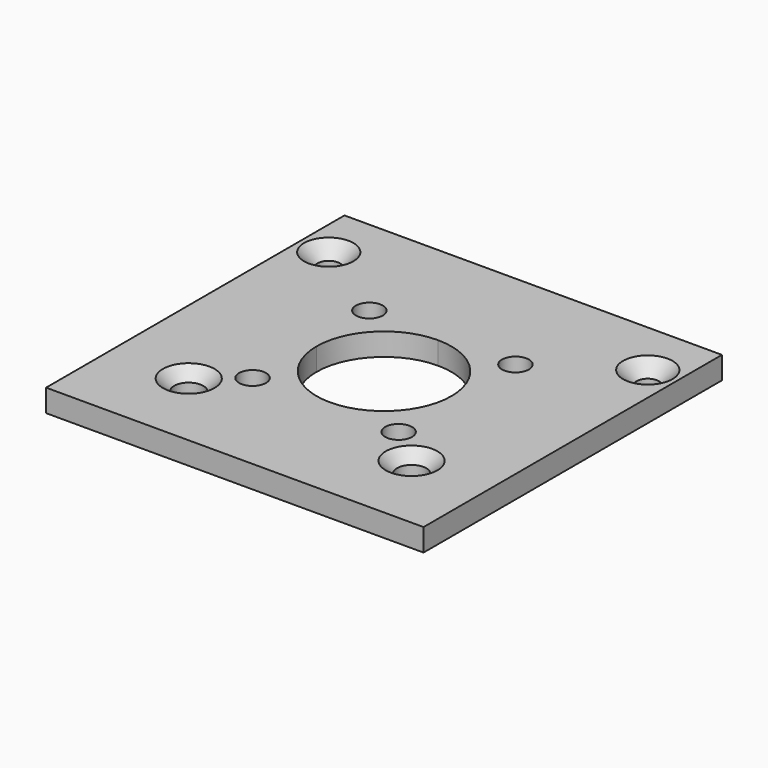
from build123d import *

# Parameters (mm, degrees)
F0_R     = 3.25
F0_R_2   = 3
F0_R_3   = 2.5
F1_DEPTH = 5
F2_SIZE  = 3
F3_SIZE  = 3
F4_SIZE  = 2.5
F5_SIZE  = 2.5


with BuildPart() as f1:
    # F0 (on Top) → F1 (new body)
    with BuildSketch(Plane.XY):
        with BuildLine():
            Line((-42, 0), (0, 0))
            Line((0, 0), (0, 41.5))
            Line((0, 41.5), (-27, 41.5))
            ThreePointArc((-27, 41.5), (-31.393398, 30.893398), (-42, 26.5))
            Line((-42, 26.5), (-42, 0))
        make_face()
        with Locations((-17.2, 18.18)):
            Circle(F0_R, mode=Mode.SUBTRACT)
        with Locations((-25.75, 25.25)):
            Circle(F0_R_2, mode=Mode.SUBTRACT)
        with BuildLine():
            Line((-84, 0), (-42, 0))
            Line((-42, 0), (-42, 26.5))
            ThreePointArc((-42, 26.5), (-52.606602, 30.893398), (-57, 41.5))
            Line((-57, 41.5), (-84, 41.5))
            Line((-84, 41.5), (-84, 0))
        make_face()
        with Locations((-66.8, 18.18)):
            Circle(F0_R, mode=Mode.SUBTRACT)
        with Locations((-58.25, 25.25)):
            Circle(F0_R_2, mode=Mode.SUBTRACT)
        with BuildLine():
            Line((-27, 41.5), (0, 41.5))
            Line((0, 41.5), (0, 83))
            Line((0, 83), (-42, 83))
            Line((-42, 83), (-42, 56.5))
            ThreePointArc((-42, 56.5), (-31.393398, 52.106602), (-27, 41.5))
        make_face()
        with Locations((-25.75, 57.75)):
            Circle(F0_R_2, mode=Mode.SUBTRACT)
        with Locations((-6.5, 70.5)):
            Circle(F0_R_3, mode=Mode.SUBTRACT)
        with BuildLine():
            Line((-84, 83), (-84, 41.5))
            Line((-84, 41.5), (-57, 41.5))
            ThreePointArc((-57, 41.5), (-52.606602, 52.106602), (-42, 56.5))
            Line((-42, 56.5), (-42, 83))
            Line((-42, 83), (-84, 83))
        make_face()
        with Locations((-58.25, 57.75)):
            Circle(F0_R_2, mode=Mode.SUBTRACT)
        with Locations((-77.5, 70.5)):
            Circle(F0_R_3, mode=Mode.SUBTRACT)
    extrude(amount=F1_DEPTH)

    # F2
    f2_edges = [f1.edges().sort_by_distance(p)[0] for p in [
        (-80, 70.5, 5),
    ]]
    chamfer(f2_edges, length=F2_SIZE)

    # F3
    f3_edges = [f1.edges().sort_by_distance(p)[0] for p in [
        (-9, 70.5, 5),
    ]]
    chamfer(f3_edges, length=F3_SIZE)

    # F4
    f4_edges = [f1.edges().sort_by_distance(p)[0] for p in [
        (-70.05, 18.18, 5),
    ]]
    chamfer(f4_edges, length=F4_SIZE)

    # F5
    f5_edges = [f1.edges().sort_by_distance(p)[0] for p in [
        (-20.45, 18.18, 5),
    ]]
    chamfer(f5_edges, length=F5_SIZE)


solid = f1.part
